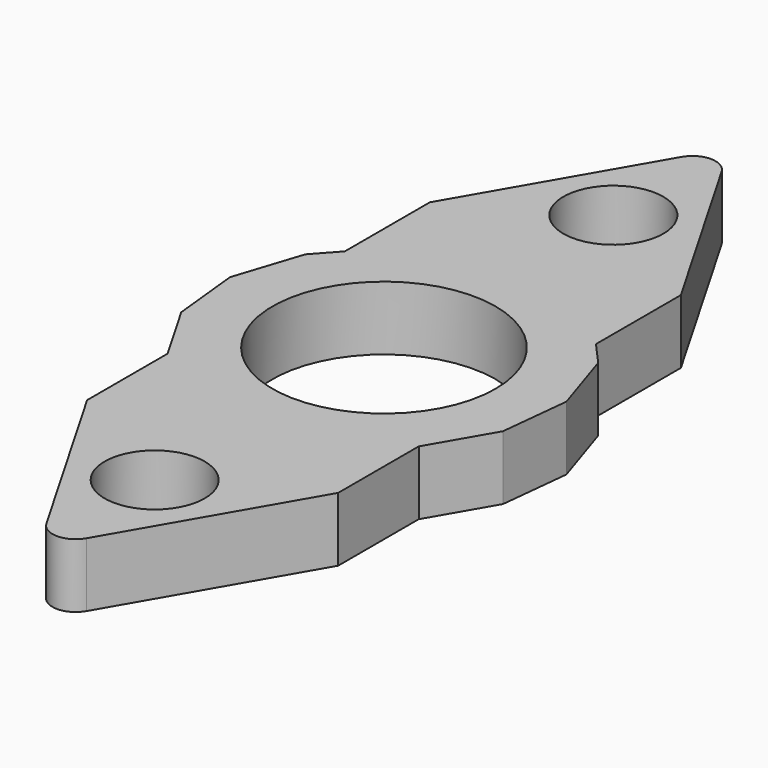
from build123d import *

# Parameters (mm, degrees)
F0_R     = 4.953
F0_R_2   = 11.049
F1_DEPTH = 6.35


with BuildPart() as f1:
    # F0 (on Top) → F1 (new body)
    with BuildSketch(Plane.XY):
        with BuildLine():
            Line((12.430325, 21.209), (1.979734, 39.309954))
            ThreePointArc((1.979734, 39.309954), (0, 40.452954), (-1.979734, 39.309954))
            Line((-1.979734, 39.309954), (-12.430325, 21.209))
            Line((-12.430325, 21.209), (-12.430325, 10.69275))
            Line((-12.430325, 10.69275), (-14.506025, 8.391351))
            Line((-14.506025, 8.391351), (-16.664983, 1.765748))
            Line((-16.664983, 1.765748), (-15.942414, -5.165168))
            Line((-15.942414, -5.165168), (-12.463257, -11.20298))
            Line((-12.463257, -11.20298), (-12.430325, -11.226949))
            Line((-12.430325, -11.226949), (-12.430325, -21.209))
            Line((-12.430325, -21.209), (-1.979734, -39.309954))
            ThreePointArc((-1.979734, -39.309954), (0, -40.452954), (1.979734, -39.309954))
            Line((1.979734, -39.309954), (12.430325, -21.209))
            Line((12.430325, -21.209), (12.430325, -11.234141))
            Line((12.430325, -11.234141), (12.444374, -11.223952))
            Line((12.444374, -11.223952), (15.933694, -5.192007))
            Line((15.933694, -5.192007), (16.667933, 1.737682))
            Line((16.667933, 1.737682), (14.520136, 8.366911))
            Line((14.520136, 8.366911), (12.430325, 10.691814))
            Line((12.430325, 10.691814), (12.430325, 21.209))
        make_face()
        with Locations((0, -28.385651)):
            Circle(F0_R, mode=Mode.SUBTRACT)
        Circle(F0_R_2, mode=Mode.SUBTRACT)
        with Locations((0, 28.385651)):
            Circle(F0_R, mode=Mode.SUBTRACT)
    extrude(amount=F1_DEPTH)


solid = f1.part
